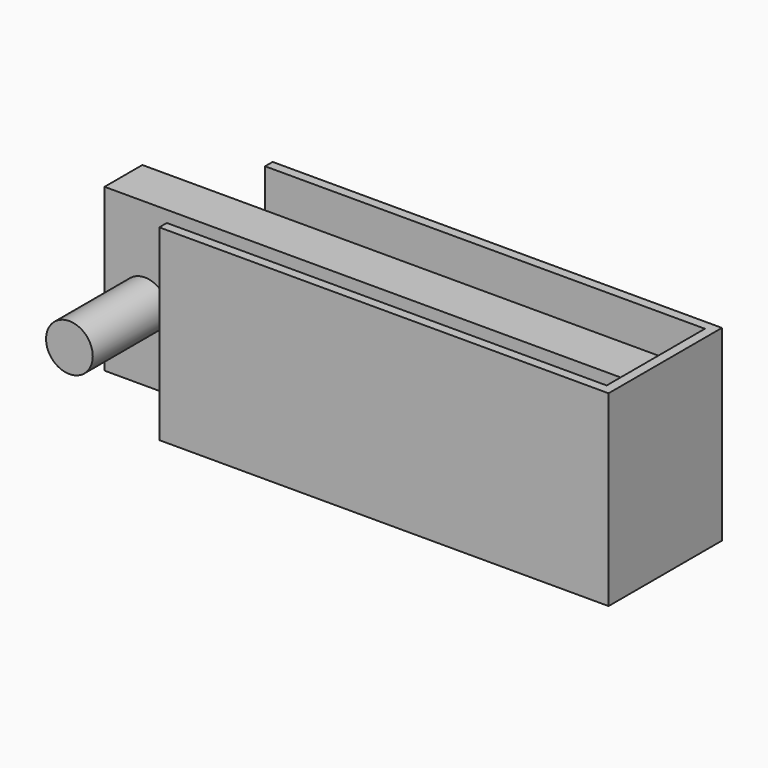
from build123d import *

# Parameters (mm, degrees)
F0_W      = 120.817792
F0_H      = 50.377894
F1_DEPTH  = 25.4
F1_FACE_W = 120.817792
F1_FACE_H = 50.377894
F2_DEPTH  = 12.7
F3_T      = -2.54
F4_W      = 140.768982
F4_H      = 43.532602
F5_DEPTH  = 12.7
F6_R      = 6.282201
F7_DEPTH  = 25.4


with BuildPart() as f1:
    # F0 (on Front) → F1 (new body)
    with BuildSketch(Plane.XZ):
        with Locations((-13.374658, 2.674932)):
            Rectangle(F0_W, F0_H)
    extrude(amount=F1_DEPTH)

    # F1_face (on face) → F2 (join, symmetric)
    with BuildSketch(Plane(origin=(-13.374658, 0, 2.674932), x_dir=(1, 0, 0), z_dir=(0, 1, 0))):
        Rectangle(F1_FACE_W, F1_FACE_H)
    extrude(amount=F2_DEPTH, both=True)

    # F3
    f3_openings = [f1.faces().sort_by_distance(p)[0] for p in [
        (-13.374658, -6.35, 27.863879),
        (-73.783554, -6.35, 2.674932),
        (-13.374658, -6.35, -22.514015),
    ]]
    offset(amount=F3_T, openings=f3_openings)


with BuildPart() as f5:
    # F4 (on Front) → F5 (new body)
    with BuildSketch(Plane.XZ):
        with Locations((-28.275851, 2.441084)):
            Rectangle(F4_W, F4_H)
    extrude(amount=F5_DEPTH)

    # F6 (on face) → F7 (join)
    with BuildSketch(Plane.XZ.offset(12.7)):
        with Locations((-87.795772, 0)):
            Circle(F6_R)
    extrude(amount=F7_DEPTH)


solid = Compound([f1.part, f5.part])
